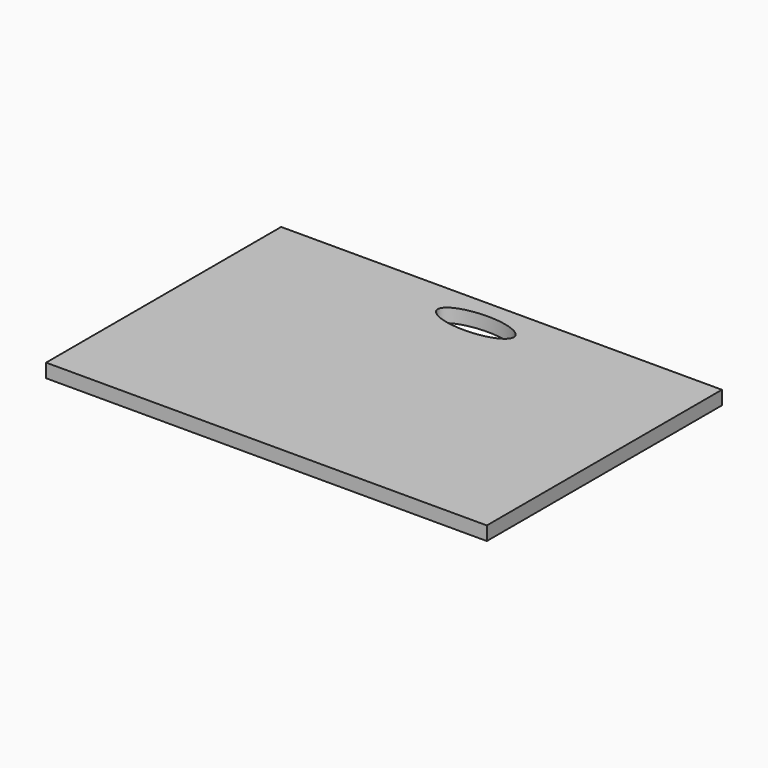
from build123d import *

# Parameters (mm, degrees)
F0_W     = 609.6
F0_H     = 406.4
F1_DEPTH = 19.05
F4_DEPTH = 25.4


with BuildPart() as f1:
    # F0 (on Top) → F1 (new body)
    with BuildSketch(Plane.XY):
        Rectangle(F0_W, F0_H)
    extrude(amount=F1_DEPTH)

    # F3 (on face) → F4 (cut)
    with BuildSketch(Plane.XY.offset(19.05)):
        with BuildLine():
            add(Edge.make_bspline(
                [(-52.603301, 158.75), (-52.603301, 123.18954), (26.301651, 140.96977), (105.206602, 158.75), (26.301651, 176.53023), (-52.603301, 194.31046), (-52.603301, 158.75)],
                knots=[0, 0, 0, 2.094395, 2.094395, 4.18879, 4.18879, 6.283185, 6.283185, 6.283185], degree=2, weights=[1, 0.5, 1, 0.5, 1, 0.5, 1]))
        make_face()
    extrude(amount=-F4_DEPTH, mode=Mode.SUBTRACT)


solid = f1.part
